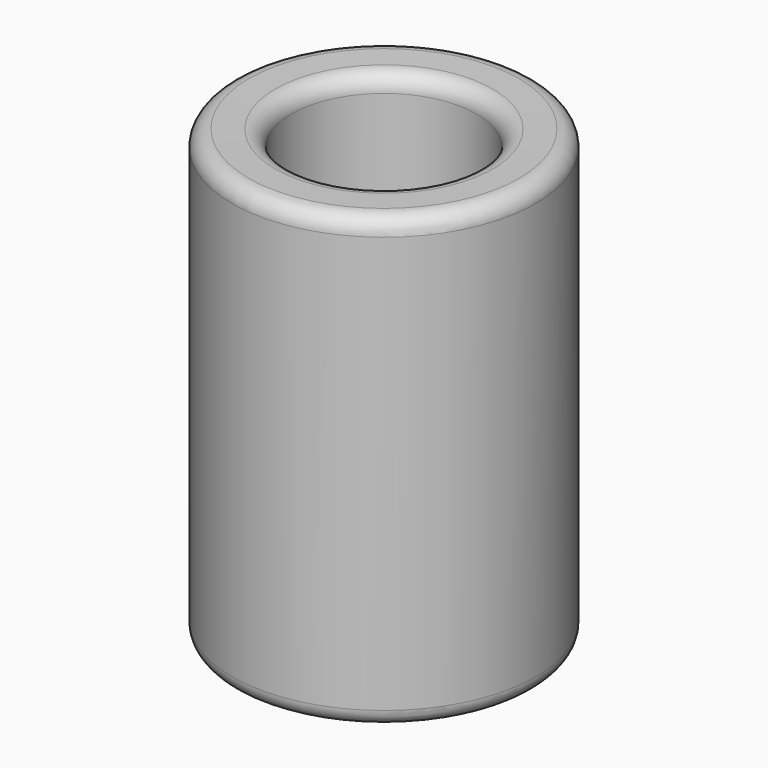
from build123d import *


with BuildPart() as f1:
    # F0 (on Front) → F1 (revolve)
    with BuildSketch(Plane.XZ):
        with BuildLine():
            ThreePointArc((-16.265942, 37.24327), (-17.702014, 36.669703), (-18.299835, 35.243557))
            Line((-18.299835, 35.243557), (-18.299835, -14.91217))
            ThreePointArc((-18.299835, -14.91217), (-17.714048, -16.326383), (-16.299835, -16.91217))
            Line((-16.299835, -16.91217), (0, -16.91217))
            Line((0, -16.91217), (0, -8.116585))
            Line((0, -8.116585), (-9.116645, -8.116585))
            ThreePointArc((-9.116645, -8.116585), (-10.530858, -7.530798), (-11.116645, -6.116585))
            Line((-11.116645, -6.116585), (-11.116645, 35.189605))
            ThreePointArc((-11.116645, 35.189605), (-11.690498, 36.591784), (-13.082751, 37.189318))
            Line((-13.082751, 37.189318), (-16.265942, 37.24327))
        make_face()
    revolve(axis=Axis((0, 0, 10.792887), (0, 0, -1)))


solid = f1.part
